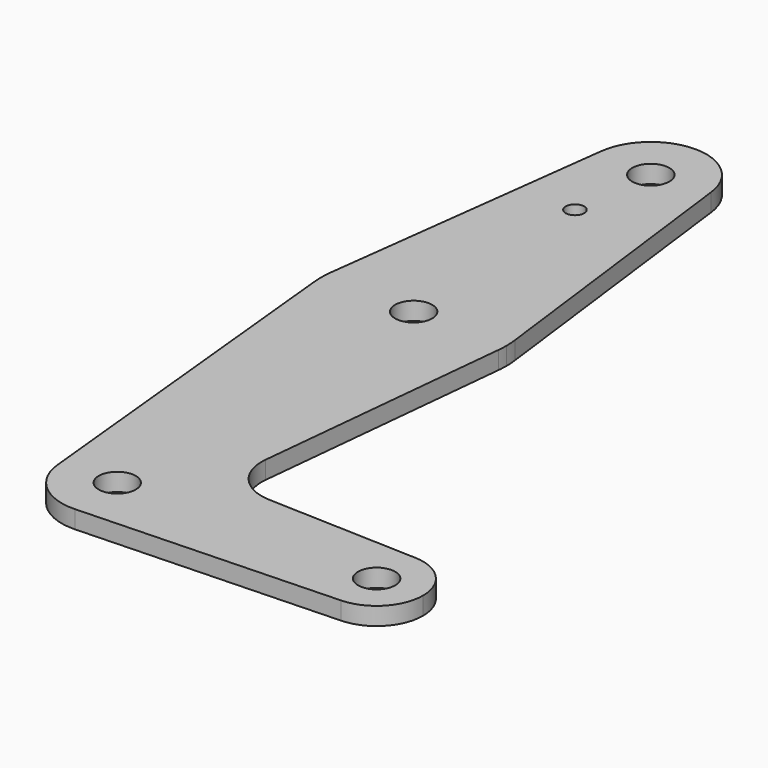
from build123d import *

# Parameters (mm, degrees)
F0_R     = 3.175
F0_R_2   = 1.5875
F1_DEPTH = 3.048


with BuildPart() as f1:
    # F0 (on Top) → F1 (new body)
    with BuildSketch(Plane.XY):
        with BuildLine():
            ThreePointArc((-9.457579, 51.931295), (-0.566651, 41.29187), (9.525, 50.8))
            ThreePointArc((9.525, 50.8), (9.510673, 51.322225), (9.467736, 51.842879))
            ThreePointArc((9.467736, 51.842879), (0.044499, 60.324896), (-9.457579, 51.931295))
        make_face()
        with Locations((0, 50.8)):
            Circle(F0_R, mode=Mode.SUBTRACT)
        with BuildLine():
            ThreePointArc((9.467736, 51.842879), (9.510673, 51.322225), (9.525, 50.8))
            ThreePointArc((9.525, 50.8), (-0.566651, 41.29187), (-9.457579, 51.931295))
            Line((-9.457579, 51.931295), (-15.750481, 1.984434))
            ThreePointArc((-15.750481, 1.984434), (-0.000154, 15.875), (15.750442, 1.984739))
            Line((15.750442, 1.984739), (9.467736, 51.842879))
        make_face()
        with Locations((-1.5875, 36.5252)):
            Circle(F0_R_2, mode=Mode.SUBTRACT)
        with BuildLine():
            ThreePointArc((15.875, 0), (15.84383, 0.994322), (15.750442, 1.984739))
            ThreePointArc((15.750442, 1.984739), (-0.000154, 15.875), (-15.750481, 1.984434))
            ThreePointArc((-15.750481, 1.984434), (-15.875, 0), (-15.750481, -1.984434))
            ThreePointArc((-15.750481, -1.984434), (0.199735, -15.873743), (15.795426, -1.5875))
            ThreePointArc((15.795426, -1.5875), (15.855094, -0.794747), (15.875, 0))
        make_face()
        Circle(F0_R, mode=Mode.SUBTRACT)
        with BuildLine():
            ThreePointArc((15.795426, -1.5875), (0.199735, -15.873743), (-15.750481, -1.984434))
            Line((-15.750481, -1.984434), (-9.477332, -64.451741))
            ThreePointArc((-9.477332, -64.451741), (-0.476467, -53.986925), (9.525, -63.5))
            ThreePointArc((9.525, -63.5), (6.854408, -70.113827), (0.340179, -73.018923))
            Line((0.340179, -73.018923), (44.733482, -71.432436))
            ThreePointArc((44.733482, -71.432436), (36.5125, -63.5), (44.733482, -55.567564))
            Line((44.733482, -55.567564), (18.9676, -54.646766))
            ThreePointArc((18.9676, -54.646766), (13.2612, -51.928641), (11.341187, -45.906618))
            Line((11.341187, -45.906618), (15.795426, -1.5875))
        make_face()
        with BuildLine():
            ThreePointArc((9.525, -63.5), (-0.476467, -53.986925), (-9.477332, -64.451741))
            ThreePointArc((-9.477332, -64.451741), (-6.262671, -70.676669), (0.340179, -73.018923))
            ThreePointArc((0.340179, -73.018923), (6.854408, -70.113827), (9.525, -63.5))
        make_face()
        with Locations((0, -63.5)):
            Circle(F0_R, mode=Mode.SUBTRACT)
        with BuildLine():
            ThreePointArc((44.733482, -55.567564), (36.5125, -63.5), (44.733482, -71.432436))
            ThreePointArc((44.733482, -71.432436), (50.162007, -69.011523), (52.3875, -63.5))
            ThreePointArc((52.3875, -63.5), (50.162007, -57.988477), (44.733482, -55.567564))
        make_face()
        with Locations((44.45, -63.5)):
            Circle(F0_R, mode=Mode.SUBTRACT)
    extrude(amount=F1_DEPTH)


solid = f1.part
